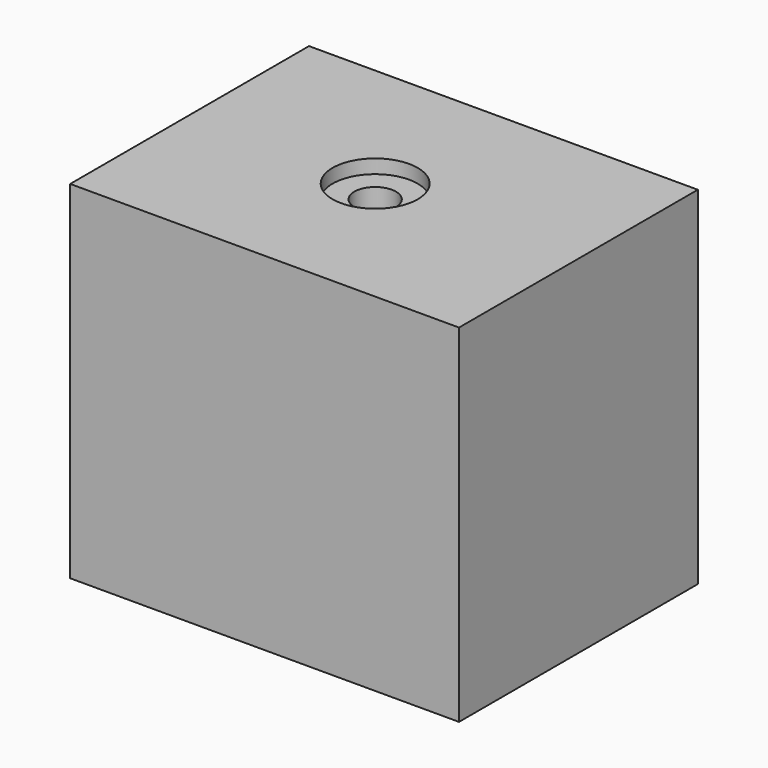
from build123d import *

# Parameters (mm, degrees)
F0_W     = 112.000551
F0_H     = 85.980557
F1_DEPTH = 100
F3_D     = 12
F4_R     = 12.259928
F5_DEPTH = 4


with BuildPart() as f1:
    # F0 (on Top) → F1 (new body)
    with BuildSketch(Plane.XY):
        with Locations((11.973376, -18.311291)):
            Rectangle(F0_W, F0_H)
    extrude(amount=F1_DEPTH)

    # F3 (through all)
    with Locations(Plane.XY.offset(100)):
        with Locations((9.428112, -18.311292)):
            Hole(F3_D / 2)

    # F4 (on face) → F5 (cut)
    with BuildSketch(Plane.XY.offset(100)):
        with Locations((9.428112, -18.311292)):
            Circle(F4_R)
    extrude(amount=-F5_DEPTH, mode=Mode.SUBTRACT)


solid = f1.part
